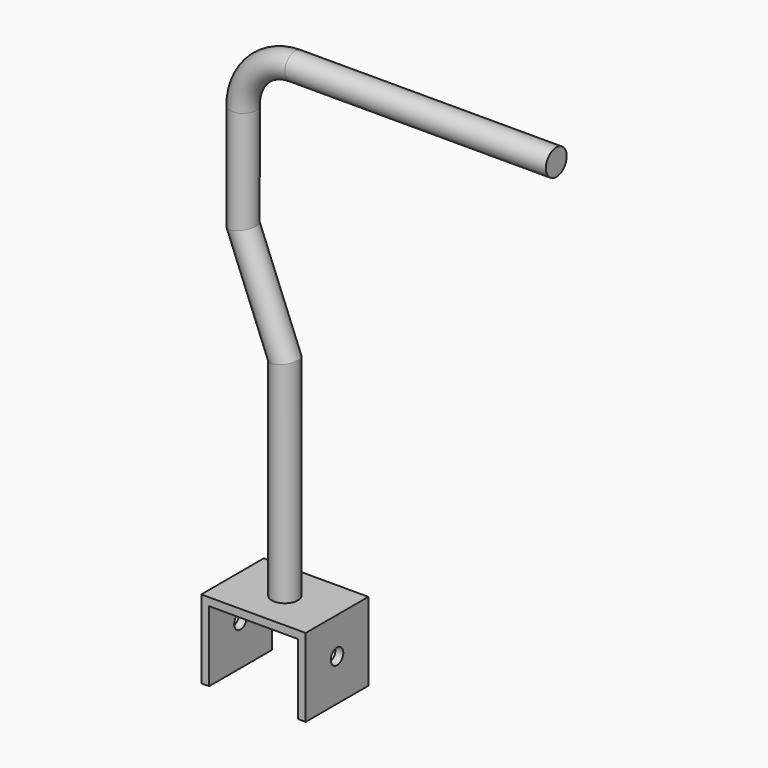
from build123d import *

# Parameters (mm, degrees)
F1_R     = 2.5
F4_W     = 15
F4_H     = 15
F5_DEPTH = 10
F6_W     = 17
F6_H     = 13.5
F7_DEPTH = 25
F8_R     = 1.5
F9_DEPTH = 25


with BuildPart() as f2:
    # F2: sweep along a path in F0
    with BuildLine(Plane.XZ) as f2_path:
        Line((0, 39.5429997165), (-50, 39.5429997165))
        ThreePointArc((-50, 39.5429997165), (-57.0710678119, 36.6140675284), (-60, 29.5429997165))
        Line((-60, 29.5429997165), (-60, 9.5429997165))
        Line((-60, 9.5429997165), (-52, -10.4570002835))
        Line((-52, -10.4570002835), (-52, -50.4570002835))
    # F1 (on Right) → F2 (sweep)
    with BuildSketch(Plane.YZ):
        with Locations((0, 39.5429997165)):
            Circle(F1_R)
    sweep(path=f2_path.line, transition=Transition.RIGHT)

    # F4 (on offset) → F5 (join, symmetric)
    with BuildSketch(Plane.YZ.offset(-52)):
        with Locations((0, -57.9570002835)):
            Rectangle(F4_W, F4_H)
    extrude(amount=F5_DEPTH, both=True)

    # F6 (on face) → F7 (cut)
    with BuildSketch(Plane.XZ.offset(7.5)):
        with Locations((-52, -58.7070002835)):
            Rectangle(F6_W, F6_H)
    extrude(amount=-F7_DEPTH, mode=Mode.SUBTRACT)

    # F8 (on face) → F9 (cut)
    with BuildSketch(Plane(origin=(-62, 0, 0), x_dir=(0, -1, 0), z_dir=(-1, 0, 0))):
        with Locations((0, -57.4570002835)):
            Circle(F8_R)
    extrude(amount=-F9_DEPTH, mode=Mode.SUBTRACT)


solid = f2.part
